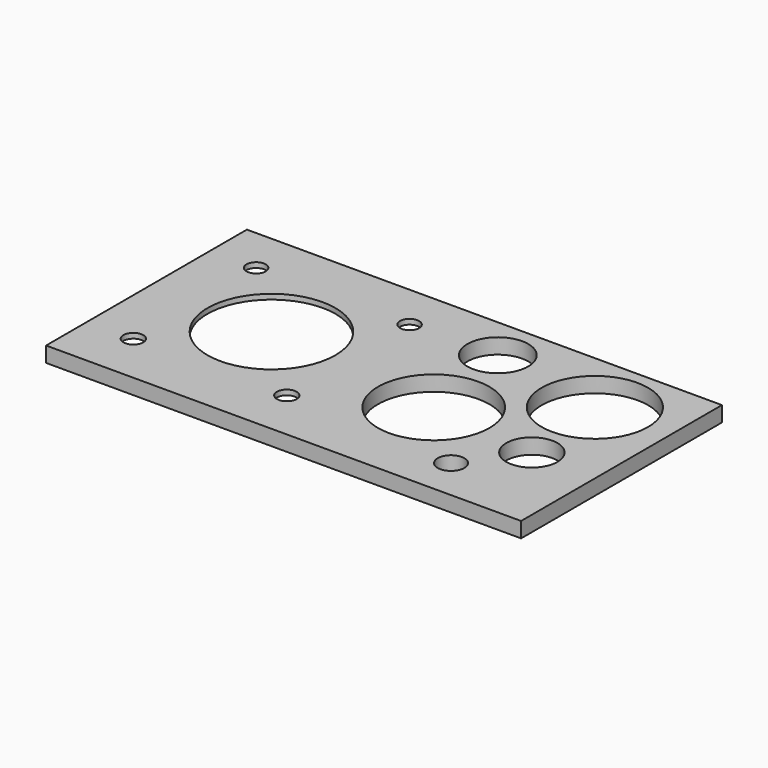
from build123d import *

# Parameters (mm, degrees)
SKETCH_W        = 92.866455
SKETCH_H        = 49.076486
PAD_DEPTH       = 3
SKETCH001_R     = 1.87588
SKETCH001_R_2   = 1.936405
SKETCH001_R_3   = 12.5
SKETCH001_R_4   = 5.95
SKETCH001_R_5   = 5
SKETCH001_R_6   = 10.4
SKETCH001_R_7   = 10.9
SKETCH001_R_8   = 2.6
POCKET_DEPTH    = 5
SKETCH002_W     = 42
SKETCH002_H     = 42
POCKET001_DEPTH = 2


with BuildPart() as part:
    # Sketch → Pad (new body)
    with BuildSketch(Plane.XY):
        with Locations((-4.722953, 8.240901)):
            Rectangle(SKETCH_W, SKETCH_H)
    extrude(amount=PAD_DEPTH)

    # Sketch001 (on Face6 of Pad) → Pocket (cut)
    with BuildSketch(Plane.XY.offset(3)):
        with Locations((-42.156181, 23.779144)):
            Circle(SKETCH001_R)
        with Locations((-12.156181, 23.779144)):
            Circle(SKETCH001_R)
        with Locations((-12.156181, -6.220856)):
            Circle(SKETCH001_R_2)
        with Locations((-42.156181, -6.220856)):
            Circle(SKETCH001_R_2)
        with Locations((-27.156181, 8.779144)):
            Circle(SKETCH001_R_3)
        with Locations((4.704166, 24.273006)):
            Circle(SKETCH001_R_4)
        with Locations((28.842405, 2.41649)):
            Circle(SKETCH001_R_5)
        with Locations((27.041033, 20.069828)):
            Circle(SKETCH001_R_6)
        with Locations((7.826513, 4.698213)):
            Circle(SKETCH001_R_7)
        with Locations((21.396776, -8.031404)):
            Circle(SKETCH001_R_8)
    extrude(amount=-POCKET_DEPTH, mode=Mode.SUBTRACT)

    # Sketch002 (on Face4 of Pocket) → Pocket001 (cut)
    with BuildSketch(Plane(origin=(0, 0, 0), x_dir=(1, 0, 0), z_dir=(0, 0, -1))):
        with Locations((-27.156181, -7.702658)):
            Rectangle(SKETCH002_W, SKETCH002_H)
    extrude(amount=-POCKET001_DEPTH, mode=Mode.SUBTRACT)


solid = part.part
